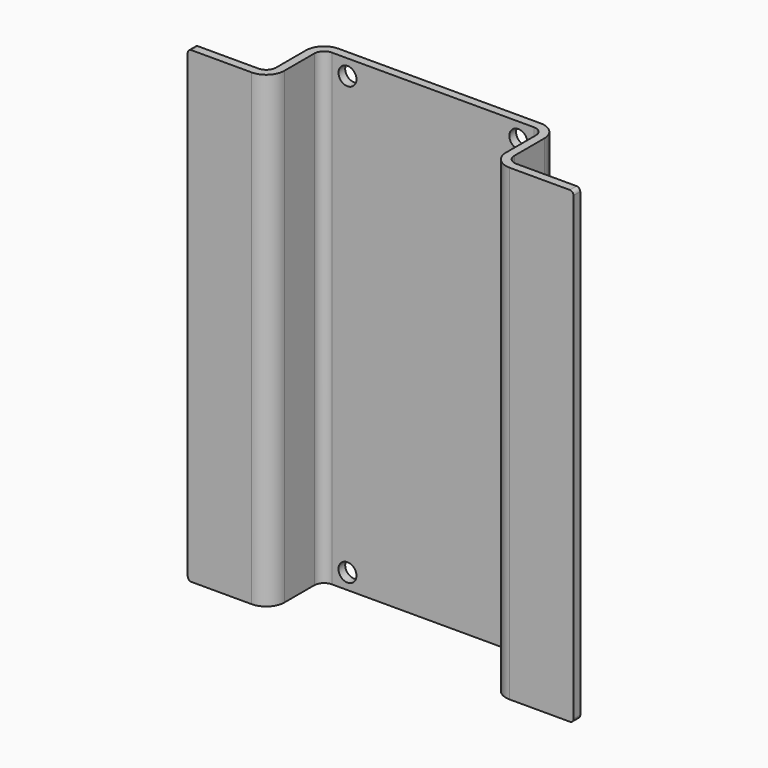
from build123d import *

# Parameters (mm, degrees)
F1_DEPTH = 95.25
F2_R     = 1.98374
F3_R     = 3.69316
F4_R     = 0.762
F5_R     = 1.8288
F6_DEPTH = 1.70942


with BuildPart() as f1:
    # F0 (on Top) → F1 (new body)
    with BuildSketch(Plane.XY):
        Polygon((0, -13.29058), (0, 0), (45.08116, 0), (45.08116, -13.29058), (61.79058, -13.29058), (61.79058, -11.58116), (46.79058, -11.58116), (46.79058, 1.70942), (-1.70942, 1.70942), (-1.70942, -11.58116), (-16.70942, -11.58116), (-16.70942, -13.29058), align=None)
    extrude(amount=F1_DEPTH)

    # F2
    f2_edges = [f1.edges().sort_by_distance(p)[0] for p in [
        (0, 0, 47.625),
        (-1.70942, -11.58116, 47.625),
        (45.08116, 0, 47.625),
        (46.79058, -11.58116, 47.625),
    ]]
    fillet(f2_edges, radius=F2_R)

    # F3
    f3_edges = [f1.edges().sort_by_distance(p)[0] for p in [
        (0, -13.29058, 47.625),
        (-1.70942, 1.70942, 47.625),
        (46.79058, 1.70942, 47.625),
        (45.08116, -13.29058, 47.625),
    ]]
    fillet(f3_edges, radius=F3_R)

    # F4
    f4_edges = [f1.edges().sort_by_distance(p)[0] for p in [
        (-16.70942, -12.43587, 0),
        (-16.70942, -12.43587, 95.25),
        (61.79058, -12.43587, 0),
        (61.79058, -12.43587, 95.25),
    ]]
    fillet(f4_edges, radius=F4_R)

    # F5 (on face) → F6 (cut, through all)
    with BuildSketch(Plane.XZ):
        with Locations((5.15874, 92.075)):
            Circle(F5_R)
        with Locations((5.15874, 3.175)):
            Circle(F5_R)
        with Locations((39.92242, 92.075)):
            Circle(F5_R)
        with Locations((39.92242, 3.175)):
            Circle(F5_R)
    extrude(amount=-F6_DEPTH, mode=Mode.SUBTRACT)


solid = f1.part
